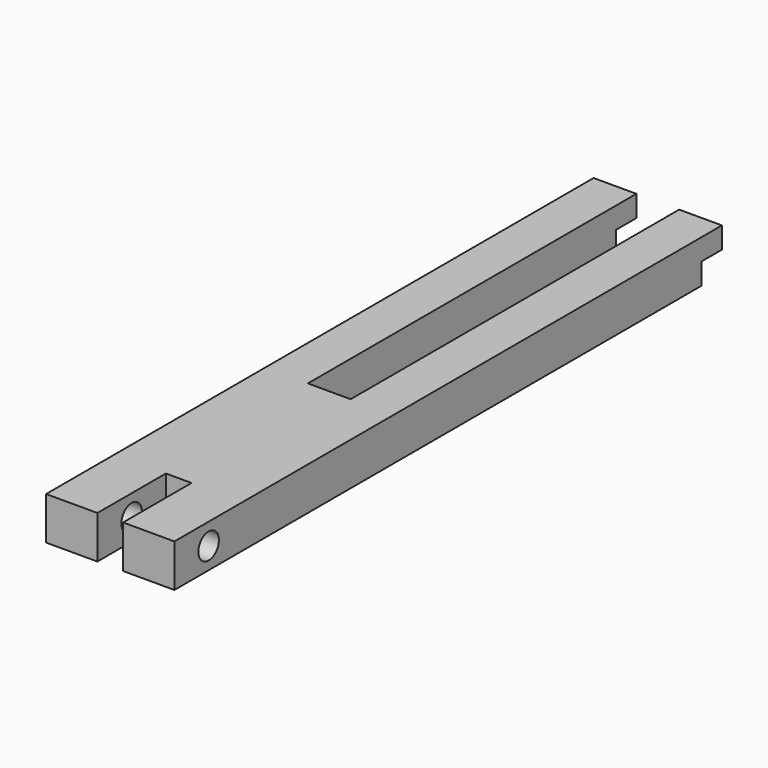
from build123d import *

# Parameters (mm, degrees)
F0_W     = 15
F0_H     = 80
F1_DEPTH = 5
F2_W     = 5
F2_H     = 48
F3_DEPTH = 25
F4_W     = 5
F4_H     = 2.5
F5_DEPTH = 3
F6_W     = 5
F6_H     = 2.5
F7_DEPTH = 3
F8_W     = 3
F8_H     = 10
F9_DEPTH = 25
F11_D    = 3


with BuildPart() as f1:
    # F0 (on Top) → F1 (new body)
    with BuildSketch(Plane.XY):
        with Locations((0, 40)):
            Rectangle(F0_W, F0_H)
    extrude(amount=F1_DEPTH)

    # F2 (on face) → F3 (cut)
    with BuildSketch(Plane.XY.offset(5)):
        with Locations((0, 56)):
            Rectangle(F2_W, F2_H)
    extrude(amount=-F3_DEPTH, mode=Mode.SUBTRACT)

    # F4 (on face) → F5 (cut)
    with BuildSketch(Plane(origin=(0, 80, 0), x_dir=(-1, 0, 0), z_dir=(0, 1, 0))):
        with Locations((5, 1.25)):
            Rectangle(F4_W, F4_H)
    extrude(amount=-F5_DEPTH, mode=Mode.SUBTRACT)

    # F6 (on face) → F7 (cut)
    with BuildSketch(Plane(origin=(0, 80, 0), x_dir=(-1, 0, 0), z_dir=(0, 1, 0))):
        with Locations((-5, 1.25)):
            Rectangle(F6_W, F6_H)
    extrude(amount=-F7_DEPTH, mode=Mode.SUBTRACT)

    # F8 (on face) → F9 (cut)
    with BuildSketch(Plane.XY.offset(5)):
        with Locations((0, 5)):
            Rectangle(F8_W, F8_H)
    extrude(amount=-F9_DEPTH, mode=Mode.SUBTRACT)

    # F11 (through all)
    with Locations(Plane.YZ.offset(7.5)):
        with Locations((5, 2.5)):
            Hole(F11_D / 2)


solid = f1.part
